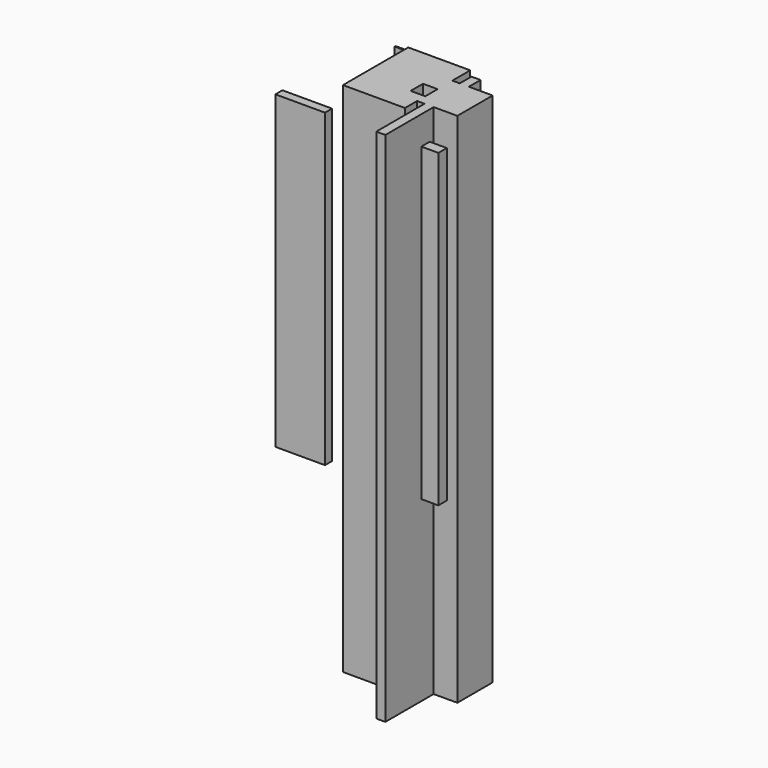
from build123d import *

# Parameters (mm, degrees)
F0_W     = 5.8608949184
F0_H     = 9.4129443169
F0_H_2   = 28.416454792
F0_W_2   = 15.2738541365
F0_H_3   = 38.8950258493
F0_H_4   = 0.7104128599
F0_W_3   = 1.7760246992
F1_DEPTH = 200
F0_W_4   = 31.9685041904
F0_H_5   = 5.6832879782
F0_W_5   = 11.011376977
F0_H_6   = 6.7489147186
F2_DEPTH = 333


with BuildPart() as f1:
    # F0 (on Top) → F1 (new body)
    with BuildSketch(Plane.XY):
        Polygon((28.2388776541, 16.5170654655), (28.2388776541, 28.416454792), (13.6754363775, 28.416454792), (13.6754363775, 0), (28.2388776541, 0), (28.2388776541, 6.5713077784), (18.8259184361, 6.5713077784), (18.8259184361, 16.5170654655), align=None)
        with Locations((35.9645932913, 33.1229269505)):
            Rectangle(F0_W, F0_H)
        with Locations((35.9645932913, 14.208227396)):
            Rectangle(F0_W, F0_H_2)
        Polygon((33.0341458321, 0), (33.0341458321, 28.416454792), (28.2388776541, 28.416454792), (28.2388776541, 16.5170654655), (28.2388776541, 6.5713077784), (28.2388776541, 0), align=None)
        with Locations((46.5319678187, 14.208227396)):
            Rectangle(F0_W_2, F0_H_2)
        with Locations((35.9645932913, -19.4475129247)):
            Rectangle(F0_W, F0_H_3)
        Polygon((13.6754363775, 28.416454792), (28.2388776541, 28.416454792), (28.2388776541, 42.8022891283), (-11.7217749357, 42.8022891283), (-11.7217749357, 39.9606376886), (-9.9457502365, 39.9606376886), (-9.9457502365, 39.2502248287), (-11.7217749357, 39.2502248287), (-11.7217749357, -9.7681581974), (28.2388776541, -9.7681581974), (28.2388776541, 0), (13.6754363775, 0), align=None)
        Polygon((28.2388776541, 16.5170654655), (28.2388776541, 28.416454792), (13.6754363775, 28.416454792), (13.6754363775, 0), (28.2388776541, 0), (28.2388776541, 6.5713077784), (18.8259184361, 6.5713077784), (18.8259184361, 16.5170654655), align=None)
        with Locations((-14.6522223949, 39.6054312587)):
            Rectangle(F0_W, F0_H_4)
        with Locations((-10.8337625861, 39.6054312587)):
            Rectangle(F0_W_3, F0_H_4)
    extrude(amount=F1_DEPTH)

    # F2 (add): a face of the model
    f2_faces = [f1.faces().sort_by_distance(p)[0] for p in [
        (18.3515295696, 13.7387134094, 200),
    ]]
    extrude(f2_faces, amount=-F2_DEPTH)


with BuildPart() as f1b:
    # F0 (on Top) → F1, piece 2 (new body)
    with BuildSketch(Plane.XY):
        with Locations((-15.9842520952, -36.0533818603)):
            Rectangle(F0_W_4, F0_H_5)
    extrude(amount=F1_DEPTH)


with BuildPart() as f1c:
    # F0 (on Top) → F1, piece 3 (new body)
    with BuildSketch(Plane.XY):
        with Locations((66.4234831929, -34.0997576714)):
            Rectangle(F0_W_5, F0_H_6)
    extrude(amount=F1_DEPTH)


solid = Compound([f1.part, f1b.part, f1c.part])
